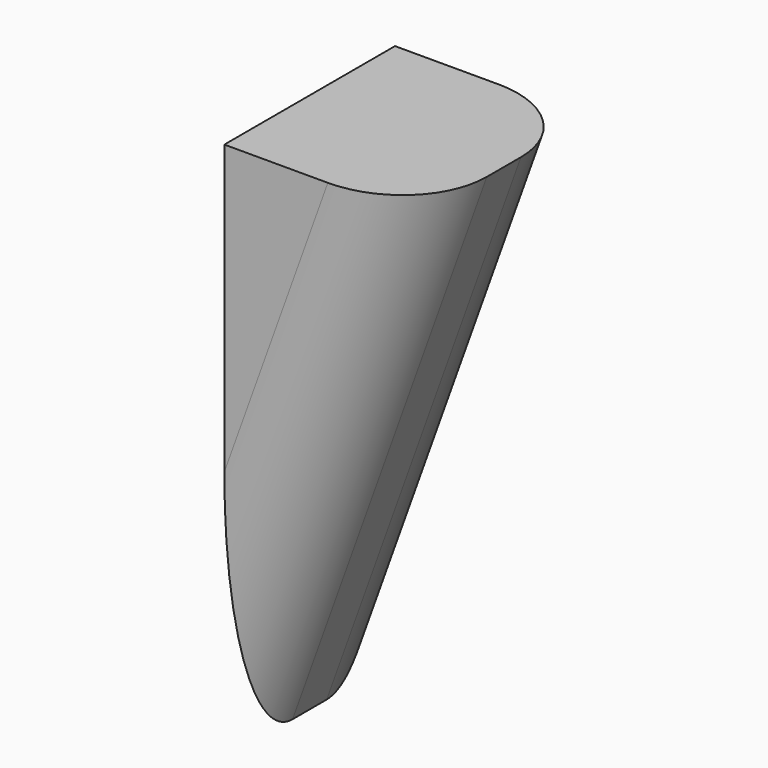
from build123d import *

# Parameters (mm, degrees)
F1_DEPTH = 2.5
F2_R     = 2


with BuildPart() as f1:
    # F0 (on Front) → F1 (new body, symmetric)
    with BuildSketch(Plane.XZ):
        Polygon((4.551195, 0), (0, 0), (0, -12.671864), align=None)
    extrude(amount=F1_DEPTH, both=True)

    # F2
    f2_edges = [f1.edges().sort_by_distance(p)[0] for p in [
        (2.275598, 2.5, -6.335932),
        (2.275598, -2.5, -6.335932),
    ]]
    fillet(f2_edges, radius=F2_R)


solid = f1.part
